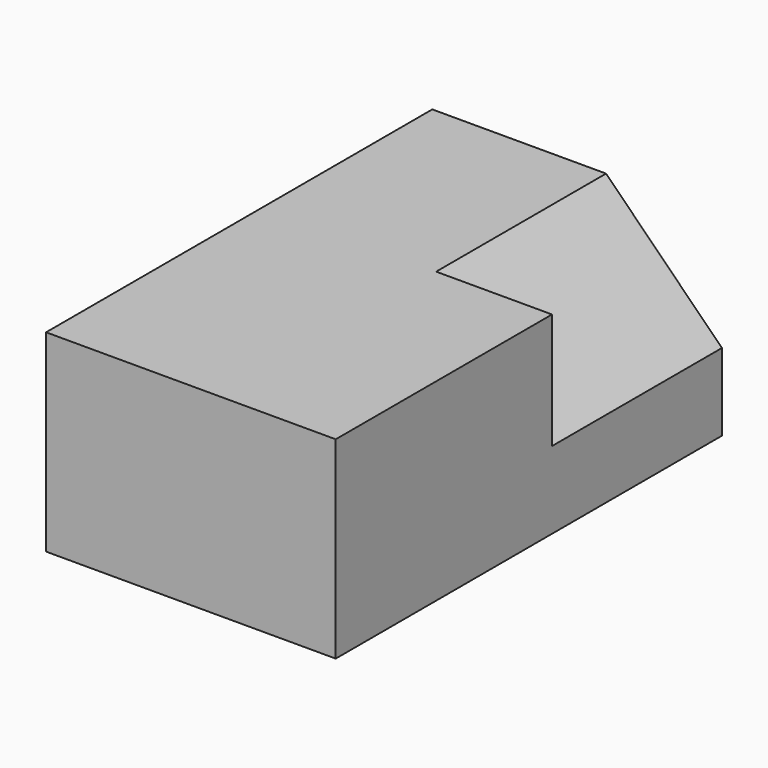
from build123d import *

# Parameters (mm, degrees)
F1_DEPTH = 50
F2_DEPTH = 22


with BuildPart() as f1:
    # F0 (on Front) → F1 (new body)
    with BuildSketch(Plane.XZ):
        Polygon((-15, -10), (15, -10), (15, -2), (3, 10), (-15, 10), align=None)
        Polygon((3, 10), (15, -2), (15, 10), align=None)
    extrude(amount=F1_DEPTH)

    # F0 (on Front) → F2 (cut)
    with BuildSketch(Plane.XZ):
        Polygon((3, 10), (15, -2), (15, 10), align=None)
    extrude(amount=F2_DEPTH, mode=Mode.SUBTRACT)


solid = f1.part
